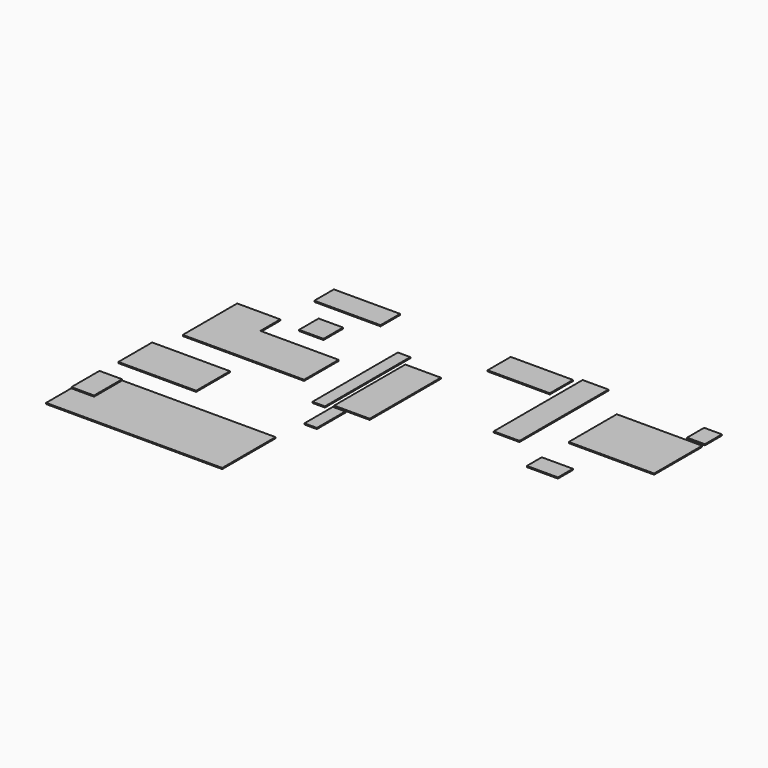
from build123d import *

# Parameters (mm, degrees)
F2_W      = 1920
F2_H      = 1350
F3_DEPTH  = 25
F4_W      = 580
F4_H      = 2500
F5_DEPTH  = 25
F6_W      = 700
F6_H      = 420
F7_DEPTH  = 25
F8_W      = 800
F8_H      = 2000
F9_DEPTH  = 25
F10_W     = 3962
F10_H     = 1500
F11_DEPTH = 25
F13_DEPTH = 25
F14_W     = 1750
F14_H     = 950
F15_DEPTH = 25
F16_W     = 400
F16_H     = 480
F17_DEPTH = 25
F18_W     = 1400
F18_H     = 650
F19_DEPTH = 25
F20_W     = 280
F20_H     = 2400
F21_DEPTH = 25
F22_W     = 1490
F22_H     = 550
F23_DEPTH = 25
F24_W     = 550
F24_H     = 550
F25_DEPTH = 25
F26_W     = 280
F26_H     = 800
F27_DEPTH = 25
F28_W     = 510
F28_H     = 790
F29_DEPTH = 50


with BuildPart() as f3:
    # F2 (on face) → F3 (new body)
    with BuildSketch(Plane.XY):
        with Locations((4017.787971, 1974.437165)):
            Rectangle(F2_W, F2_H)
    extrude(amount=F3_DEPTH)


with BuildPart() as f5:
    # F4 (on face) → F5 (new body)
    with BuildSketch(Plane.XY.offset(25)):
        with Locations((2096.21068, 2003.856629)):
            Rectangle(F4_W, F4_H)
    extrude(amount=F5_DEPTH)


with BuildPart() as f7:
    # F6 (on face) → F7 (new body)
    with BuildSketch(Plane.XY):
        with Locations((3401.82457, 338.219351)):
            Rectangle(F6_W, F6_H)
    extrude(amount=F7_DEPTH)


with BuildPart() as f9:
    # F8 (on face) → F9 (new body)
    with BuildSketch(Plane.XY):
        with Locations((-624.407864, 805.238724)):
            Rectangle(F8_W, F8_H)
    extrude(amount=F9_DEPTH)


with BuildPart() as f11:
    # F10 (on face) → F11 (new body)
    with BuildSketch(Plane.XY):
        with Locations((-3059.5, -2524)):
            Rectangle(F10_W, F10_H)
    extrude(amount=F11_DEPTH)


with BuildPart() as f13:
    # F12 (on face) → F13 (new body)
    with BuildSketch(Plane.XY):
        Polygon((-3811.013489, 1774.43166), (-4781.013489, 1774.43166), (-4781.013489, 244.43166), (-2051.013489, 244.43166), (-2051.013489, 1214.43166), (-3811.013489, 1214.43166), align=None)
    extrude(amount=F13_DEPTH)


with BuildPart() as f15:
    # F14 (on face) → F15 (new body)
    with BuildSketch(Plane.XY):
        with Locations((-4145.787239, -791.144395)):
            Rectangle(F14_W, F14_H)
    extrude(amount=F15_DEPTH)


with BuildPart() as f17:
    # F16 (on face) → F17 (new body)
    with BuildSketch(Plane.XY):
        with Locations((4777.787971, 2965.640316)):
            Rectangle(F16_W, F16_H)
    extrude(amount=F17_DEPTH)


with BuildPart() as f19:
    # F18 (on face) → F19 (new body)
    with BuildSketch(Plane.XY):
        with Locations((940.908957, 2863.508034)):
            Rectangle(F18_W, F18_H)
    extrude(amount=F19_DEPTH)


with BuildPart() as f21:
    # F20 (on face) → F21 (new body)
    with BuildSketch(Plane.XY):
        with Locations((-1272.188768, 880.962801)):
            Rectangle(F20_W, F20_H)
    extrude(amount=F21_DEPTH)


with BuildPart() as f23:
    # F22 (on face) → F23 (new body)
    with BuildSketch(Plane.XY):
        with Locations((-3044.352646, 2978.595114)):
            Rectangle(F22_W, F22_H)
    extrude(amount=F23_DEPTH)


with BuildPart() as f25:
    # F24 (on face) → F25 (new body)
    with BuildSketch(Plane.XY):
        with Locations((-3031.403399, 1946.086907)):
            Rectangle(F24_W, F24_H)
    extrude(amount=F25_DEPTH)


with BuildPart() as f27:
    # F26 (on face) → F27 (new body)
    with BuildSketch(Plane.XY):
        with Locations((-870.951042, -647.729731)):
            Rectangle(F26_W, F26_H)
    extrude(amount=F27_DEPTH)


with BuildPart() as f29:
    # F28 (on face) → F29 (new body)
    with BuildSketch(Plane.XY):
        with Locations((-4782.735462, -2171.393375)):
            Rectangle(F28_W, F28_H)
    extrude(amount=F29_DEPTH)


solid = Compound([f3.part, f5.part, f7.part, f9.part, f11.part, f13.part, f15.part, f17.part, f19.part, f21.part, f23.part, f25.part, f27.part, f29.part])
